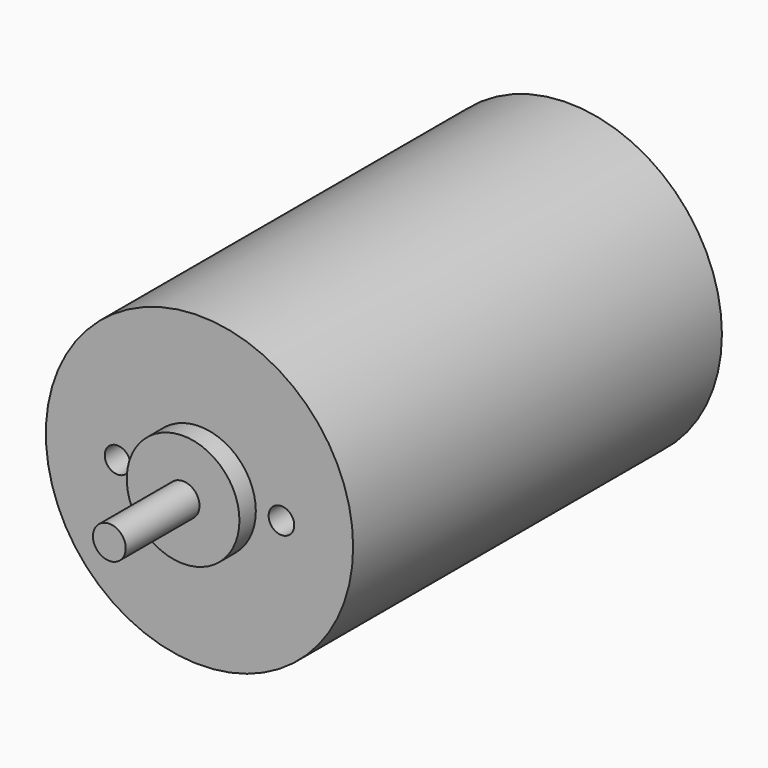
from build123d import *

# Parameters (mm, degrees)
F0_R     = 15
F0_R_2   = 1.25
F0_R_3   = 5.5
F1_DEPTH = 45
F2_DEPTH = 2
F3_R     = 1.6
F4_DEPTH = 9


with BuildPart() as f1:
    # F0 (on Front) → F1 (new body)
    with BuildSketch(Plane.XZ):
        Circle(F0_R)
        with Locations((-8, 0)):
            Circle(F0_R_2, mode=Mode.SUBTRACT)
        Circle(F0_R_3, mode=Mode.SUBTRACT)
        with Locations((8, 0)):
            Circle(F0_R_2, mode=Mode.SUBTRACT)
        Circle(F0_R_3)
    extrude(amount=-F1_DEPTH)

    # F0 (on Front) → F2 (join)
    with BuildSketch(Plane.XZ):
        Circle(F0_R_3)
    extrude(amount=F2_DEPTH)

    # F3 (on face) → F4 (join)
    with BuildSketch(Plane.XZ.offset(2)):
        Circle(F3_R)
    extrude(amount=F4_DEPTH)


solid = f1.part
